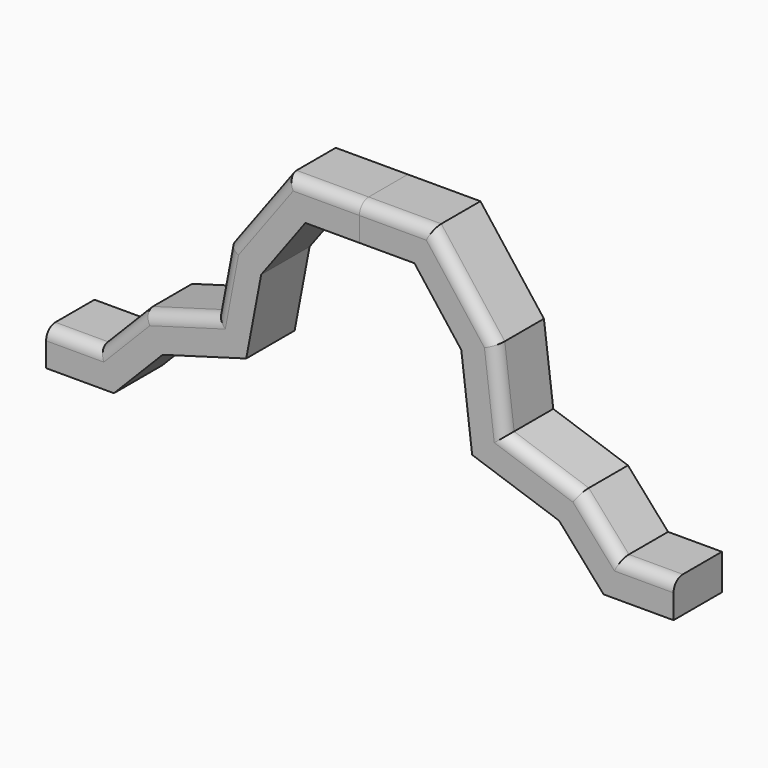
from build123d import *


with BuildPart() as f2:
    # F2: sweep along a path in F1
    with BuildLine(Plane.XZ) as f2_path:
        Line((0, 46.2265610695), (-23.5412996262, 46.2265610695))
        Line((-23.5412996262, 46.2265610695), (-42.8023636341, 20.1171152294))
        Line((-42.8023636341, 20.1171152294), (-49.2227226496, -13.6967580765))
        Line((-49.2227226496, -13.6967580765), (-85.1767137647, -23.9693261683))
        Line((-85.1767137647, -23.9693261683), (-106.1498746276, -45.3705117106))
        Line((-106.1498746276, -45.3705117106), (-135.2554857731, -45.3705117106))
    # F0 (on Right) → F2 (sweep)
    with BuildSketch(Plane.YZ):
        with BuildLine():
            Line((14.9808358401, 61.2073950469), (-6.128612794, 61.2073950469))
            ThreePointArc((-6.128612794, 61.2073950469), (-9.6641466999, 59.7429289529), (-11.128612794, 56.2073950469))
            Line((-11.128612794, 56.2073950469), (-11.128612794, 45.7985401154))
            Line((-11.128612794, 45.7985401154), (14.9808358401, 45.7985401154))
            Line((14.9808358401, 45.7985401154), (14.9808358401, 61.2073950469))
        make_face()
    sweep(path=f2_path.line, transition=Transition.RIGHT)


with BuildPart() as f4:
    # F4: sweep along a path in F3
    with BuildLine(Plane.XZ) as f4_path:
        Line((0, 45.3705117106), (23.5413070768, 45.3705117106))
        Line((23.5413070768, 45.3705117106), (43.5690395534, 19.2610658705))
        Line((43.5690395534, 19.2610658705), (48.2776798308, -19.2610658705))
        Line((48.2776798308, -19.2610658705), (85.9468057752, -32.1017764509))
        Line((85.9468057752, -32.1017764509), (105.2094548941, -53.9309866726))
        Line((105.2094548941, -53.9309866726), (135.6015950441, -53.9309866726))
    # F0 (on Right) → F4 (sweep)
    with BuildSketch(Plane.YZ):
        with BuildLine():
            Line((14.9808358401, 61.2073950469), (-6.128612794, 61.2073950469))
            ThreePointArc((-6.128612794, 61.2073950469), (-9.6641466999, 59.7429289529), (-11.128612794, 56.2073950469))
            Line((-11.128612794, 56.2073950469), (-11.128612794, 45.7985401154))
            Line((-11.128612794, 45.7985401154), (14.9808358401, 45.7985401154))
            Line((14.9808358401, 45.7985401154), (14.9808358401, 61.2073950469))
        make_face()
    sweep(path=f4_path.line, transition=Transition.RIGHT)


solid = Compound([f2.part, f4.part])
